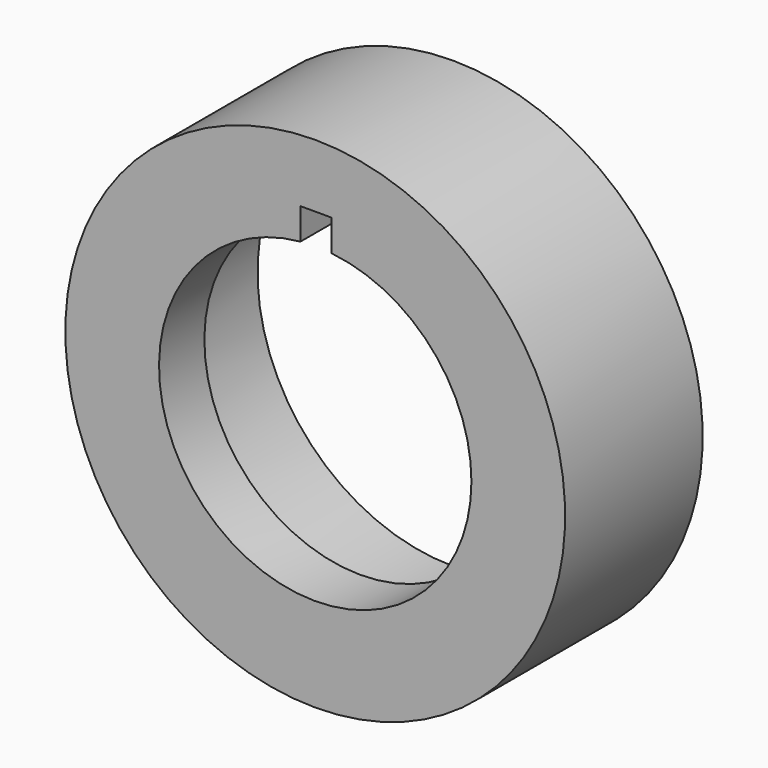
from build123d import *

# Parameters (mm, degrees)
F3_DEPTH = 25


with BuildPart() as f1:
    # F0 (on Right) → F1 (revolve)
    with BuildSketch(Plane.YZ):
        Polygon((-17.8196914494, 16), (-17.8196914494, 10), (-14.1910459714, 10), (-14.1910459714, 12.5), (-6.8121855946, 12.5), (-6.8121855946, 16), align=None)
        Polygon((-17.8196914494, 16), (-17.8196914494, 10), (-14.1910459714, 10), (-14.1910459714, 12.5), (-6.8121855946, 12.5), (-6.8121855946, 16), align=None)
    revolve(axis=Axis((0, 1.8924064934, 0), (0, 1, 0)))

    # F2 (on face) → F3 (cut)
    with BuildSketch(Plane.XZ.offset(17.8196914494)):
        with BuildLine():
            Line((-0.94310515, 11.955428302), (-0.94310515, 9.955428302))
            ThreePointArc((-0.94310515, 9.955428302), (0.0571814852, 9.9998365126), (1.05689485, 9.943991818))
            Line((1.05689485, 9.943991818), (1.05689485, 11.955428302))
            Line((1.05689485, 11.955428302), (-0.94310515, 11.955428302))
        make_face()
    extrude(amount=-F3_DEPTH, mode=Mode.SUBTRACT)


solid = f1.part
